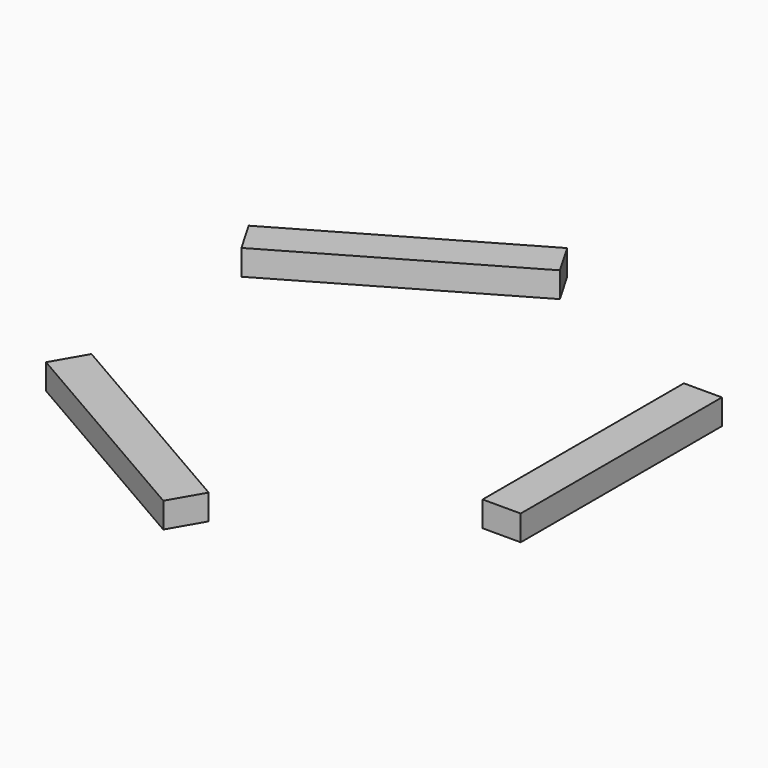
from build123d import *

# Parameters (mm, degrees)
F1_DEPTH = 10
F2_ANGLE = -30
F3_ANGLE = -120
F4_ANGLE = -120


with BuildPart() as f1:
    # F0 (on Top) → F1 (new body)
    with BuildSketch(Plane.XY):
        Polygon((-93.9424591597, -8.4331122525), (-44.3724591597, 77.4246462787), (-57.3628402164, 84.9246462787), (-106.9328402164, -0.9331122525), align=None)
    extrude(amount=F1_DEPTH)


with BuildPart() as f1_1:
    # F2: moved
    add(f1.part.rotate(Axis((0, 0, 0), (0, 0, 1)), F2_ANGLE))


with BuildPart() as f3_1:
    # F3: copy of F1
    add(f1_1.part.rotate(Axis((0, 0, 0), (0, 0, 1)), F3_ANGLE))


with BuildPart() as f4_1:
    # F4: copy of F3_1
    add(f3_1.part.rotate(Axis((0, 0, 0), (0, 0, 1)), F4_ANGLE))


solid = Compound([f1_1.part, f3_1.part, f4_1.part])
